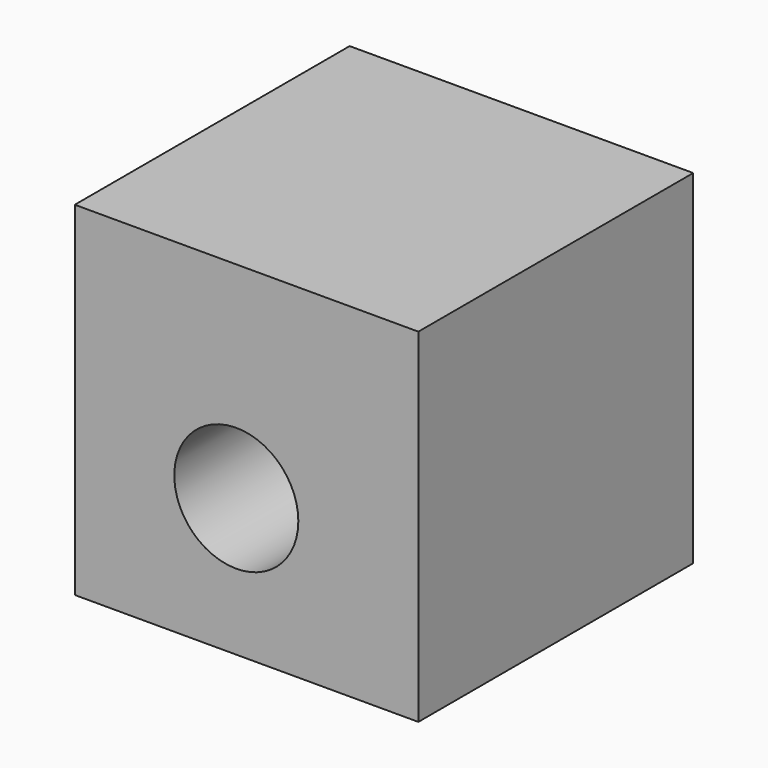
from build123d import *

# Parameters (mm, degrees)
F0_W     = 76.2
F0_H     = 76.2
F1_DEPTH = 38.1
F2_R     = 13.757616
F3_DEPTH = 76.201


with BuildPart() as f1:
    # F0 (on Front) → F1 (new body, symmetric)
    with BuildSketch(Plane.XZ):
        with Locations((12.952891, -12.02254)):
            Rectangle(F0_W, F0_H)
    extrude(amount=F1_DEPTH, both=True)

    # F2 (on face) → F3 (cut, through all)
    with BuildSketch(Plane.XZ.offset(38.1)):
        with Locations((10.676038, -19.584619)):
            Circle(F2_R)
    extrude(amount=-F3_DEPTH, mode=Mode.SUBTRACT)


solid = f1.part
